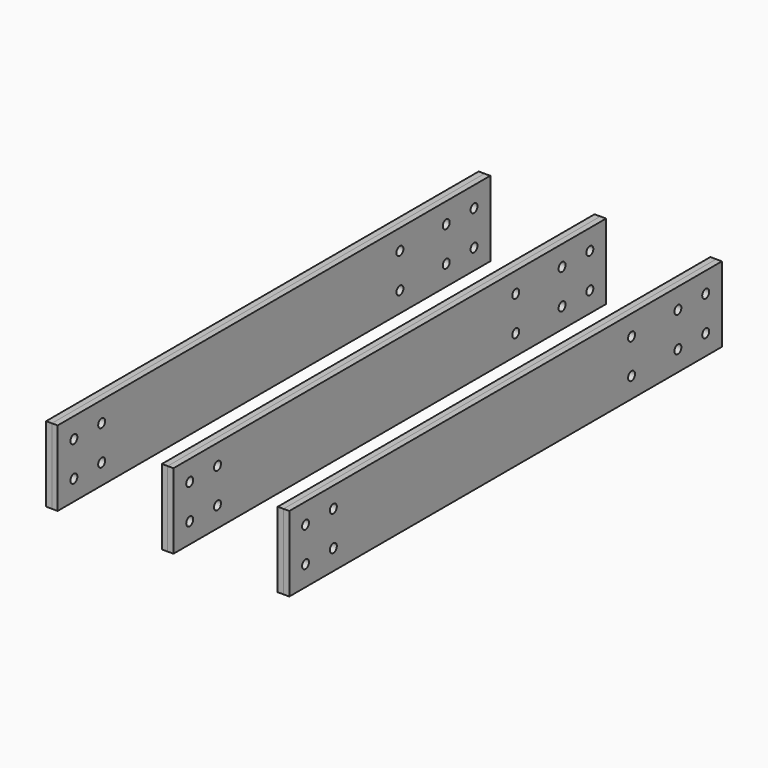
from build123d import *

# Parameters (mm, degrees)
F0_W     = 6.35
F0_H     = 592.8995
F2_DEPTH = 41.275
F1_W     = 6.35
F1_H     = 592.8995
F3_R     = 4.7625
F4_DEPTH = 266.701


with BuildPart() as f2:
    # F0 (on Top) → F2 (new body, symmetric)
    with BuildSketch(Plane.XY):
        with Locations((3.175, 296.44975)):
            Rectangle(F0_W, F0_H)
    extrude(amount=F2_DEPTH, both=True)


with BuildPart() as f2b:
    # F0 (on Top) → F2, piece 2 (new body, symmetric)
    with BuildSketch(Plane.XY):
        with Locations((130.175, 296.44975)):
            Rectangle(F0_W, F0_H)
    extrude(amount=F2_DEPTH, both=True)


with BuildPart() as f2c:
    # F0 (on Top) → F2, piece 3 (new body, symmetric)
    with BuildSketch(Plane.XY):
        with Locations((257.175, 296.44975)):
            Rectangle(F0_W, F0_H)
    extrude(amount=F2_DEPTH, both=True)


with BuildPart() as f2d:
    # F1 (on Top) → F2, piece 4 (new body, symmetric)
    with BuildSketch(Plane.XY):
        with Locations((9.525, 296.44975)):
            Rectangle(F1_W, F1_H)
    extrude(amount=F2_DEPTH, both=True)


with BuildPart() as f2e:
    # F1 (on Top) → F2, piece 5 (new body, symmetric)
    with BuildSketch(Plane.XY):
        with Locations((136.525, 296.44975)):
            Rectangle(F1_W, F1_H)
    extrude(amount=F2_DEPTH, both=True)


with BuildPart() as f2f:
    # F1 (on Top) → F2, piece 6 (new body, symmetric)
    with BuildSketch(Plane.XY):
        with Locations((263.525, 296.44975)):
            Rectangle(F1_W, F1_H)
    extrude(amount=F2_DEPTH, both=True)


with BuildPart() as f4_tool:
    # F3 (on face) → F4 (new body, through all)
    with BuildSketch(Plane(origin=(0, 0, 0), x_dir=(0, -1, 0), z_dir=(-1, 0, 0))):
        with Locations((-22.225, 19.05)):
            Circle(F3_R)
        with Locations((-60.325, 19.05)):
            Circle(F3_R)
        with Locations((-60.325, -19.05)):
            Circle(F3_R)
        with Locations((-22.225, -19.05)):
            Circle(F3_R)
        with Locations((-570.6745, 19.05)):
            Circle(F3_R)
        with Locations((-532.5745, 19.05)):
            Circle(F3_R)
        with Locations((-532.5745, -19.05)):
            Circle(F3_R)
        with Locations((-570.6745, -19.05)):
            Circle(F3_R)
        with Locations((-469.0745, 19.05)):
            Circle(F3_R)
        with Locations((-469.0745, -19.05)):
            Circle(F3_R)
    extrude(amount=-F4_DEPTH)


with BuildPart() as f2_1:
    add(f2.part)

    # F4: cut by f4_tool
    add(f4_tool.part, mode=Mode.SUBTRACT)


with BuildPart() as f2b_1:
    add(f2b.part)

    # F4: cut by f4_tool
    add(f4_tool.part, mode=Mode.SUBTRACT)


with BuildPart() as f2c_1:
    add(f2c.part)

    # F4: cut by f4_tool
    add(f4_tool.part, mode=Mode.SUBTRACT)


with BuildPart() as f2d_1:
    add(f2d.part)

    # F4: cut by f4_tool
    add(f4_tool.part, mode=Mode.SUBTRACT)


with BuildPart() as f2e_1:
    add(f2e.part)

    # F4: cut by f4_tool
    add(f4_tool.part, mode=Mode.SUBTRACT)


with BuildPart() as f2f_1:
    add(f2f.part)

    # F4: cut by f4_tool
    add(f4_tool.part, mode=Mode.SUBTRACT)


solid = Compound([f2_1.part, f2b_1.part, f2c_1.part, f2d_1.part, f2e_1.part, f2f_1.part])
